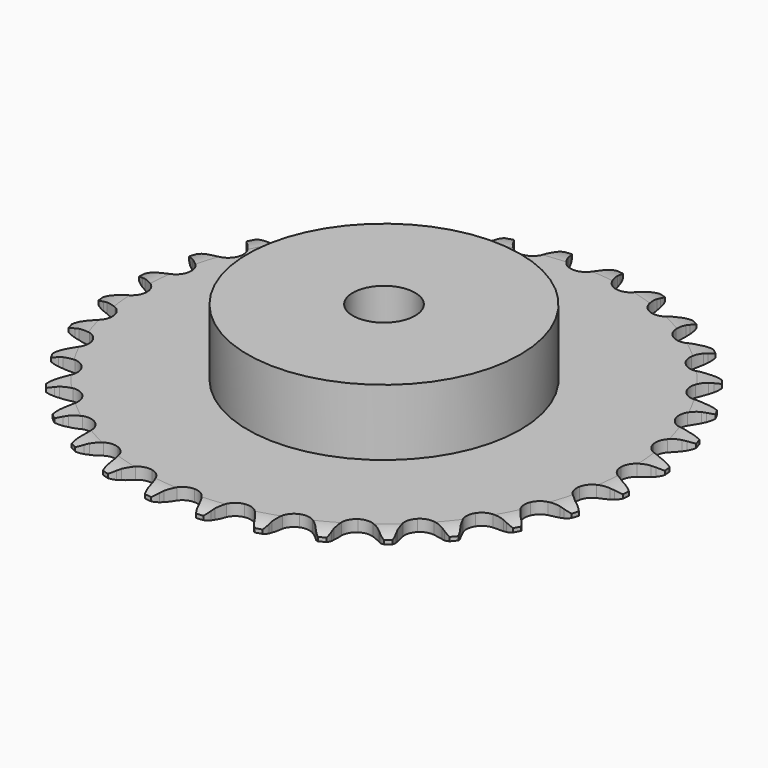
from build123d import *

# Parameters (mm, degrees)
PAD_DEPTH         = 3
SKETCH001_R       = 35
PAD001_DEPTH      = 20
SKETCH002_R       = 8
POCKET_DEPTH      = 0.001
POCKET_DEPTH_BACK = 20.001


with BuildPart() as part:
    # Sprocket → Pad (new body)
    with BuildSketch(Plane.XY):
        with BuildLine():
            ThreePointArc((-6.751607, 68.550213), (-5.658096, 67.364663), (-4.901426, 65.940322))
            Line((-4.901426, 65.940322), (-4.523375, 64.935864))
            ThreePointArc((-4.523375, 64.935864), (-3.923743, 63.631422), (-3.14577, 62.424822))
            ThreePointArc((-3.14577, 62.424822), (-1.7585, 61.267197), (0, 60.852112))
            ThreePointArc((0, 60.852112), (1.7585, 61.267197), (3.14577, 62.424822))
            ThreePointArc((3.14577, 62.424822), (3.923743, 63.631422), (4.523375, 64.935864))
            Line((4.523375, 64.935864), (4.901426, 65.940322))
            ThreePointArc((4.901426, 65.940322), (5.658096, 67.364663), (6.751607, 68.550213))
            ThreePointArc((6.751607, 68.550213), (7.592817, 67.17411), (8.057072, 65.629518))
            Line((8.057072, 65.629518), (8.231899, 64.570607))
            ThreePointArc((8.231899, 64.570607), (8.565525, 63.174247), (9.093154, 61.839056))
            ThreePointArc((9.093154, 61.839056), (10.227927, 60.433031), (11.871658, 59.682856))
            ThreePointArc((11.871658, 59.682856), (13.677348, 59.746898), (15.263803, 60.611638))
            Line((15.263803, 60.611638), (17.104818, 62.805673))
            ThreePointArc((17.104818, 62.805673), (17.376116, 63.268884), (17.671565, 63.717077))
            ThreePointArc((17.671565, 63.717077), (18.691571, 64.96643), (19.99536, 65.915867))
            ThreePointArc((19.99536, 65.915867), (20.551942, 64.402093), (20.705942, 62.796609))
            Line((20.705942, 62.796609), (20.670826, 61.723937))
            ThreePointArc((20.670826, 61.723937), (20.725625, 60.28932), (20.982633, 58.87685))
            ThreePointArc((20.982633, 58.87685), (21.821299, 57.276458), (23.287095, 56.220021))
            ThreePointArc((23.287095, 56.220021), (25.070583, 55.93056), (26.795258, 56.469182))
            Line((26.795258, 56.469182), (29.028933, 58.261895))
            ThreePointArc((29.028933, 58.261895), (29.385386, 58.663278), (29.762596, 59.04522))
            ThreePointArc((29.762596, 59.04522), (31.006739, 60.071574), (32.470702, 60.748411))
            ThreePointArc((32.470702, 60.748411), (32.721267, 59.15514), (32.559094, 57.550461))
            Line((32.559094, 57.550461), (32.315385, 56.50525))
            ThreePointArc((32.315385, 56.50525), (32.089251, 55.087509), (32.065761, 53.652039))
            ThreePointArc((32.065761, 53.652039), (32.576092, 51.918782), (33.807622, 50.596682))
            ThreePointArc((33.807622, 50.596682), (35.50037, 49.964842), (37.296985, 50.156647))
            Line((37.296985, 50.156647), (39.837482, 51.479146))
            ThreePointArc((39.837482, 51.479146), (40.265392, 51.803275), (40.709867, 52.104288))
            ThreePointArc((40.709867, 52.104288), (42.130336, 52.868201), (43.698214, 53.246427))
            ThreePointArc((43.698214, 53.246427), (43.633132, 51.634888), (43.161018, 50.092681))
            Line((43.161018, 50.092681), (42.718081, 49.115099))
            ThreePointArc((42.718081, 49.115099), (42.219705, 47.768716), (41.91662, 46.36541))
            ThreePointArc((41.91662, 46.36541), (42.079003, 44.565897), (43.028941, 43.028941))
            ThreePointArc((43.028941, 43.028941), (44.565897, 42.079003), (46.36541, 41.91662))
            Line((46.36541, 41.91662), (49.115099, 42.718081))
            ThreePointArc((49.115099, 42.718081), (49.598021, 42.952502), (50.092681, 43.161018))
            ThreePointArc((50.092681, 43.161018), (51.634888, 43.633132), (53.246427, 43.698214))
            ThreePointArc((53.246427, 43.698214), (52.868201, 42.130336), (52.104288, 40.709867))
            Line((52.104288, 40.709867), (51.479146, 39.837482))
            ThreePointArc((51.479146, 39.837482), (50.727679, 38.614197), (50.156647, 37.296985))
            ThreePointArc((50.156647, 37.296985), (49.964842, 35.50037), (50.596682, 33.807622))
            ThreePointArc((50.596682, 33.807622), (51.918782, 32.576092), (53.652039, 32.065761))
            Line((53.652039, 32.065761), (56.50525, 32.315385))
            ThreePointArc((56.50525, 32.315385), (57.024626, 32.451088), (57.550461, 32.559094))
            ThreePointArc((57.550461, 32.559094), (59.15514, 32.721267), (60.748411, 32.470702))
            ThreePointArc((60.748411, 32.470702), (60.071574, 31.006739), (59.04522, 29.762596))
            Line((59.04522, 29.762596), (58.261895, 29.028933))
            ThreePointArc((58.261895, 29.028933), (57.286217, 27.975757), (56.469182, 26.795258))
            ThreePointArc((56.469182, 26.795258), (55.93056, 25.070583), (56.220021, 23.287095))
            ThreePointArc((56.220021, 23.287095), (57.276458, 21.821299), (58.87685, 20.982633))
            Line((58.87685, 20.982633), (61.723937, 20.670826))
            ThreePointArc((61.723937, 20.670826), (62.259807, 20.702596), (62.796609, 20.705942))
            ThreePointArc((62.796609, 20.705942), (64.402093, 20.551942), (65.915867, 19.99536))
            ThreePointArc((65.915867, 19.99536), (64.96643, 18.691571), (63.717077, 17.671565))
            Line((63.717077, 17.671565), (62.805673, 17.104818))
            ThreePointArc((62.805673, 17.104818), (61.643278, 16.262224), (60.611638, 15.263803))
            ThreePointArc((60.611638, 15.263803), (59.746898, 13.677348), (59.682856, 11.871658))
            ThreePointArc((59.682856, 11.871658), (60.433031, 10.227927), (61.839056, 9.093154))
            Line((61.839056, 9.093154), (64.570607, 8.231899))
            ThreePointArc((64.570607, 8.231899), (65.102379, 8.158516), (65.629518, 8.057072))
            ThreePointArc((65.629518, 8.057072), (67.17411, 7.592817), (68.550213, 6.751607))
            ThreePointArc((68.550213, 6.751607), (67.364663, 5.658096), (65.940322, 4.901426))
            Line((65.940322, 4.901426), (64.935864, 4.523375))
            ThreePointArc((64.935864, 4.523375), (63.631422, 3.923743), (62.424822, 3.14577))
            ThreePointArc((62.424822, 3.14577), (61.267197, 1.7585), (60.852112, 0))
            ThreePointArc((60.852112, 0), (61.267197, -1.7585), (62.424822, -3.14577))
            Line((62.424822, -3.14577), (64.935864, -4.523375))
            ThreePointArc((64.935864, -4.523375), (65.443102, -4.699092), (65.940322, -4.901426))
            ThreePointArc((65.940322, -4.901426), (67.364663, -5.658096), (68.550213, -6.751607))
            ThreePointArc((68.550213, -6.751607), (67.17411, -7.592817), (65.629518, -8.057072))
            Line((65.629518, -8.057072), (64.570607, -8.231899))
            ThreePointArc((64.570607, -8.231899), (63.174247, -8.565525), (61.839056, -9.093154))
            ThreePointArc((61.839056, -9.093154), (60.433031, -10.227927), (59.682856, -11.871658))
            ThreePointArc((59.682856, -11.871658), (59.746898, -13.677348), (60.611638, -15.263803))
            Line((60.611638, -15.263803), (62.805673, -17.104818))
            ThreePointArc((62.805673, -17.104818), (63.268884, -17.376116), (63.717077, -17.671565))
            ThreePointArc((63.717077, -17.671565), (64.96643, -18.691571), (65.915867, -19.99536))
            ThreePointArc((65.915867, -19.99536), (64.402093, -20.551942), (62.796609, -20.705942))
            Line((62.796609, -20.705942), (61.723937, -20.670826))
            ThreePointArc((61.723937, -20.670826), (60.28932, -20.725625), (58.87685, -20.982633))
            ThreePointArc((58.87685, -20.982633), (57.276458, -21.821299), (56.220021, -23.287095))
            ThreePointArc((56.220021, -23.287095), (55.93056, -25.070583), (56.469182, -26.795258))
            Line((56.469182, -26.795258), (58.261895, -29.028933))
            ThreePointArc((58.261895, -29.028933), (58.663278, -29.385386), (59.04522, -29.762596))
            ThreePointArc((59.04522, -29.762596), (60.071574, -31.006739), (60.748411, -32.470702))
            ThreePointArc((60.748411, -32.470702), (59.15514, -32.721267), (57.550461, -32.559094))
            Line((57.550461, -32.559094), (56.50525, -32.315385))
            ThreePointArc((56.50525, -32.315385), (55.087509, -32.089251), (53.652039, -32.065761))
            ThreePointArc((53.652039, -32.065761), (51.918782, -32.576092), (50.596682, -33.807622))
            ThreePointArc((50.596682, -33.807622), (49.964842, -35.50037), (50.156647, -37.296985))
            Line((50.156647, -37.296985), (51.479146, -39.837482))
            ThreePointArc((51.479146, -39.837482), (51.803275, -40.265392), (52.104288, -40.709867))
            ThreePointArc((52.104288, -40.709867), (52.868201, -42.130336), (53.246427, -43.698214))
            ThreePointArc((53.246427, -43.698214), (51.634888, -43.633132), (50.092681, -43.161018))
            Line((50.092681, -43.161018), (49.115099, -42.718081))
            ThreePointArc((49.115099, -42.718081), (47.768716, -42.219705), (46.36541, -41.91662))
            ThreePointArc((46.36541, -41.91662), (44.565897, -42.079003), (43.028941, -43.028941))
            ThreePointArc((43.028941, -43.028941), (42.079003, -44.565897), (41.91662, -46.36541))
            Line((41.91662, -46.36541), (42.718081, -49.115099))
            ThreePointArc((42.718081, -49.115099), (42.952502, -49.598021), (43.161018, -50.092681))
            ThreePointArc((43.161018, -50.092681), (43.633132, -51.634888), (43.698214, -53.246427))
            ThreePointArc((43.698214, -53.246427), (42.130336, -52.868201), (40.709867, -52.104288))
            Line((40.709867, -52.104288), (39.837482, -51.479146))
            ThreePointArc((39.837482, -51.479146), (38.614197, -50.727679), (37.296985, -50.156647))
            ThreePointArc((37.296985, -50.156647), (35.50037, -49.964842), (33.807622, -50.596682))
            ThreePointArc((33.807622, -50.596682), (32.576092, -51.918782), (32.065761, -53.652039))
            Line((32.065761, -53.652039), (32.315385, -56.50525))
            ThreePointArc((32.315385, -56.50525), (32.451088, -57.024626), (32.559094, -57.550461))
            ThreePointArc((32.559094, -57.550461), (32.721267, -59.15514), (32.470702, -60.748411))
            ThreePointArc((32.470702, -60.748411), (31.006739, -60.071574), (29.762596, -59.04522))
            Line((29.762596, -59.04522), (29.028933, -58.261895))
            ThreePointArc((29.028933, -58.261895), (27.975757, -57.286217), (26.795258, -56.469182))
            ThreePointArc((26.795258, -56.469182), (25.070583, -55.93056), (23.287095, -56.220021))
            ThreePointArc((23.287095, -56.220021), (21.821299, -57.276458), (20.982633, -58.87685))
            Line((20.982633, -58.87685), (20.670826, -61.723937))
            ThreePointArc((20.670826, -61.723937), (20.702596, -62.259807), (20.705942, -62.796609))
            ThreePointArc((20.705942, -62.796609), (20.551942, -64.402093), (19.99536, -65.915867))
            ThreePointArc((19.99536, -65.915867), (18.691571, -64.96643), (17.671565, -63.717077))
            Line((17.671565, -63.717077), (17.104818, -62.805673))
            ThreePointArc((17.104818, -62.805673), (16.262224, -61.643278), (15.263803, -60.611638))
            ThreePointArc((15.263803, -60.611638), (13.677348, -59.746898), (11.871658, -59.682856))
            ThreePointArc((11.871658, -59.682856), (10.227927, -60.433031), (9.093154, -61.839056))
            Line((9.093154, -61.839056), (8.231899, -64.570607))
            ThreePointArc((8.231899, -64.570607), (8.158516, -65.102379), (8.057072, -65.629518))
            ThreePointArc((8.057072, -65.629518), (7.592817, -67.17411), (6.751607, -68.550213))
            ThreePointArc((6.751607, -68.550213), (5.658096, -67.364663), (4.901426, -65.940322))
            Line((4.901426, -65.940322), (4.523375, -64.935864))
            ThreePointArc((4.523375, -64.935864), (3.923743, -63.631422), (3.14577, -62.424822))
            ThreePointArc((3.14577, -62.424822), (1.7585, -61.267197), (0, -60.852112))
            ThreePointArc((0, -60.852112), (-1.7585, -61.267197), (-3.14577, -62.424822))
            Line((-3.14577, -62.424822), (-4.523375, -64.935864))
            ThreePointArc((-4.523375, -64.935864), (-4.699092, -65.443102), (-4.901426, -65.940322))
            ThreePointArc((-4.901426, -65.940322), (-5.658096, -67.364663), (-6.751607, -68.550213))
            ThreePointArc((-6.751607, -68.550213), (-7.592817, -67.17411), (-8.057072, -65.629518))
            Line((-8.057072, -65.629518), (-8.231899, -64.570607))
            ThreePointArc((-8.231899, -64.570607), (-8.565525, -63.174247), (-9.093154, -61.839056))
            ThreePointArc((-9.093154, -61.839056), (-10.227927, -60.433031), (-11.871658, -59.682856))
            ThreePointArc((-11.871658, -59.682856), (-13.677348, -59.746898), (-15.263803, -60.611638))
            Line((-15.263803, -60.611638), (-17.104818, -62.805673))
            ThreePointArc((-17.104818, -62.805673), (-17.376116, -63.268884), (-17.671565, -63.717077))
            ThreePointArc((-17.671565, -63.717077), (-18.691571, -64.96643), (-19.99536, -65.915867))
            ThreePointArc((-19.99536, -65.915867), (-20.551942, -64.402093), (-20.705942, -62.796609))
            Line((-20.705942, -62.796609), (-20.670826, -61.723937))
            ThreePointArc((-20.670826, -61.723937), (-20.725625, -60.28932), (-20.982633, -58.87685))
            ThreePointArc((-20.982633, -58.87685), (-21.821299, -57.276458), (-23.287095, -56.220021))
            ThreePointArc((-23.287095, -56.220021), (-25.070583, -55.93056), (-26.795258, -56.469182))
            Line((-26.795258, -56.469182), (-29.028933, -58.261895))
            ThreePointArc((-29.028933, -58.261895), (-29.385386, -58.663278), (-29.762596, -59.04522))
            ThreePointArc((-29.762596, -59.04522), (-31.006739, -60.071574), (-32.470702, -60.748411))
            ThreePointArc((-32.470702, -60.748411), (-32.721267, -59.15514), (-32.559094, -57.550461))
            Line((-32.559094, -57.550461), (-32.315385, -56.50525))
            ThreePointArc((-32.315385, -56.50525), (-32.089251, -55.087509), (-32.065761, -53.652039))
            ThreePointArc((-32.065761, -53.652039), (-32.576092, -51.918782), (-33.807622, -50.596682))
            ThreePointArc((-33.807622, -50.596682), (-35.50037, -49.964842), (-37.296985, -50.156647))
            Line((-37.296985, -50.156647), (-39.837482, -51.479146))
            ThreePointArc((-39.837482, -51.479146), (-40.265392, -51.803275), (-40.709867, -52.104288))
            ThreePointArc((-40.709867, -52.104288), (-42.130336, -52.868201), (-43.698214, -53.246427))
            ThreePointArc((-43.698214, -53.246427), (-43.633132, -51.634888), (-43.161018, -50.092681))
            Line((-43.161018, -50.092681), (-42.718081, -49.115099))
            ThreePointArc((-42.718081, -49.115099), (-42.219705, -47.768716), (-41.91662, -46.36541))
            ThreePointArc((-41.91662, -46.36541), (-42.079003, -44.565897), (-43.028941, -43.028941))
            ThreePointArc((-43.028941, -43.028941), (-44.565897, -42.079003), (-46.36541, -41.91662))
            Line((-46.36541, -41.91662), (-49.115099, -42.718081))
            ThreePointArc((-49.115099, -42.718081), (-49.598021, -42.952502), (-50.092681, -43.161018))
            ThreePointArc((-50.092681, -43.161018), (-51.634888, -43.633132), (-53.246427, -43.698214))
            ThreePointArc((-53.246427, -43.698214), (-52.868201, -42.130336), (-52.104288, -40.709867))
            Line((-52.104288, -40.709867), (-51.479146, -39.837482))
            ThreePointArc((-51.479146, -39.837482), (-50.727679, -38.614197), (-50.156647, -37.296985))
            ThreePointArc((-50.156647, -37.296985), (-49.964842, -35.50037), (-50.596682, -33.807622))
            ThreePointArc((-50.596682, -33.807622), (-51.918782, -32.576092), (-53.652039, -32.065761))
            Line((-53.652039, -32.065761), (-56.50525, -32.315385))
            ThreePointArc((-56.50525, -32.315385), (-57.024626, -32.451088), (-57.550461, -32.559094))
            ThreePointArc((-57.550461, -32.559094), (-59.15514, -32.721267), (-60.748411, -32.470702))
            ThreePointArc((-60.748411, -32.470702), (-60.071574, -31.006739), (-59.04522, -29.762596))
            Line((-59.04522, -29.762596), (-58.261895, -29.028933))
            ThreePointArc((-58.261895, -29.028933), (-57.286217, -27.975757), (-56.469182, -26.795258))
            ThreePointArc((-56.469182, -26.795258), (-55.93056, -25.070583), (-56.220021, -23.287095))
            ThreePointArc((-56.220021, -23.287095), (-57.276458, -21.821299), (-58.87685, -20.982633))
            Line((-58.87685, -20.982633), (-61.723937, -20.670826))
            ThreePointArc((-61.723937, -20.670826), (-62.259807, -20.702596), (-62.796609, -20.705942))
            ThreePointArc((-62.796609, -20.705942), (-64.402093, -20.551942), (-65.915867, -19.99536))
            ThreePointArc((-65.915867, -19.99536), (-64.96643, -18.691571), (-63.717077, -17.671565))
            Line((-63.717077, -17.671565), (-62.805673, -17.104818))
            ThreePointArc((-62.805673, -17.104818), (-61.643278, -16.262224), (-60.611638, -15.263803))
            ThreePointArc((-60.611638, -15.263803), (-59.746898, -13.677348), (-59.682856, -11.871658))
            ThreePointArc((-59.682856, -11.871658), (-60.433031, -10.227927), (-61.839056, -9.093154))
            Line((-61.839056, -9.093154), (-64.570607, -8.231899))
            ThreePointArc((-64.570607, -8.231899), (-65.102379, -8.158516), (-65.629518, -8.057072))
            ThreePointArc((-65.629518, -8.057072), (-67.17411, -7.592817), (-68.550213, -6.751607))
            ThreePointArc((-68.550213, -6.751607), (-67.364663, -5.658096), (-65.940322, -4.901426))
            Line((-65.940322, -4.901426), (-64.935864, -4.523375))
            ThreePointArc((-64.935864, -4.523375), (-63.631422, -3.923743), (-62.424822, -3.14577))
            ThreePointArc((-62.424822, -3.14577), (-61.267197, -1.7585), (-60.852112, 0))
            ThreePointArc((-60.852112, 0), (-61.267197, 1.7585), (-62.424822, 3.14577))
            Line((-62.424822, 3.14577), (-64.935864, 4.523375))
            ThreePointArc((-64.935864, 4.523375), (-65.443102, 4.699092), (-65.940322, 4.901426))
            ThreePointArc((-65.940322, 4.901426), (-67.364663, 5.658096), (-68.550213, 6.751607))
            ThreePointArc((-68.550213, 6.751607), (-67.17411, 7.592817), (-65.629518, 8.057072))
            Line((-65.629518, 8.057072), (-64.570607, 8.231899))
            ThreePointArc((-64.570607, 8.231899), (-63.174247, 8.565525), (-61.839056, 9.093154))
            ThreePointArc((-61.839056, 9.093154), (-60.433031, 10.227927), (-59.682856, 11.871658))
            ThreePointArc((-59.682856, 11.871658), (-59.746898, 13.677348), (-60.611638, 15.263803))
            Line((-60.611638, 15.263803), (-62.805673, 17.104818))
            ThreePointArc((-62.805673, 17.104818), (-63.268884, 17.376116), (-63.717077, 17.671565))
            ThreePointArc((-63.717077, 17.671565), (-64.96643, 18.691571), (-65.915867, 19.99536))
            ThreePointArc((-65.915867, 19.99536), (-64.402093, 20.551942), (-62.796609, 20.705942))
            Line((-62.796609, 20.705942), (-61.723937, 20.670826))
            ThreePointArc((-61.723937, 20.670826), (-60.28932, 20.725625), (-58.87685, 20.982633))
            ThreePointArc((-58.87685, 20.982633), (-57.276458, 21.821299), (-56.220021, 23.287095))
            ThreePointArc((-56.220021, 23.287095), (-55.93056, 25.070583), (-56.469182, 26.795258))
            Line((-56.469182, 26.795258), (-58.261895, 29.028933))
            ThreePointArc((-58.261895, 29.028933), (-58.663278, 29.385386), (-59.04522, 29.762596))
            ThreePointArc((-59.04522, 29.762596), (-60.071574, 31.006739), (-60.748411, 32.470702))
            ThreePointArc((-60.748411, 32.470702), (-59.15514, 32.721267), (-57.550461, 32.559094))
            Line((-57.550461, 32.559094), (-56.50525, 32.315385))
            ThreePointArc((-56.50525, 32.315385), (-55.087509, 32.089251), (-53.652039, 32.065761))
            ThreePointArc((-53.652039, 32.065761), (-51.918782, 32.576092), (-50.596682, 33.807622))
            ThreePointArc((-50.596682, 33.807622), (-49.964842, 35.50037), (-50.156647, 37.296985))
            Line((-50.156647, 37.296985), (-51.479146, 39.837482))
            ThreePointArc((-51.479146, 39.837482), (-51.803275, 40.265392), (-52.104288, 40.709867))
            ThreePointArc((-52.104288, 40.709867), (-52.868201, 42.130336), (-53.246427, 43.698214))
            ThreePointArc((-53.246427, 43.698214), (-51.634888, 43.633132), (-50.092681, 43.161018))
            Line((-50.092681, 43.161018), (-49.115099, 42.718081))
            ThreePointArc((-49.115099, 42.718081), (-47.768716, 42.219705), (-46.36541, 41.91662))
            ThreePointArc((-46.36541, 41.91662), (-44.565897, 42.079003), (-43.028941, 43.028941))
            ThreePointArc((-43.028941, 43.028941), (-42.079003, 44.565897), (-41.91662, 46.36541))
            Line((-41.91662, 46.36541), (-42.718081, 49.115099))
            ThreePointArc((-42.718081, 49.115099), (-42.952502, 49.598021), (-43.161018, 50.092681))
            ThreePointArc((-43.161018, 50.092681), (-43.633132, 51.634888), (-43.698214, 53.246427))
            ThreePointArc((-43.698214, 53.246427), (-42.130336, 52.868201), (-40.709867, 52.104288))
            Line((-40.709867, 52.104288), (-39.837482, 51.479146))
            ThreePointArc((-39.837482, 51.479146), (-38.614197, 50.727679), (-37.296985, 50.156647))
            ThreePointArc((-37.296985, 50.156647), (-35.50037, 49.964842), (-33.807622, 50.596682))
            ThreePointArc((-33.807622, 50.596682), (-32.576092, 51.918782), (-32.065761, 53.652039))
            Line((-32.065761, 53.652039), (-32.315385, 56.50525))
            ThreePointArc((-32.315385, 56.50525), (-32.451088, 57.024626), (-32.559094, 57.550461))
            ThreePointArc((-32.559094, 57.550461), (-32.721267, 59.15514), (-32.470702, 60.748411))
            ThreePointArc((-32.470702, 60.748411), (-31.006739, 60.071574), (-29.762596, 59.04522))
            Line((-29.762596, 59.04522), (-29.028933, 58.261895))
            ThreePointArc((-29.028933, 58.261895), (-27.975757, 57.286217), (-26.795258, 56.469182))
            ThreePointArc((-26.795258, 56.469182), (-25.070583, 55.93056), (-23.287095, 56.220021))
            ThreePointArc((-23.287095, 56.220021), (-21.821299, 57.276458), (-20.982633, 58.87685))
            Line((-20.982633, 58.87685), (-20.670826, 61.723937))
            ThreePointArc((-20.670826, 61.723937), (-20.702596, 62.259807), (-20.705942, 62.796609))
            ThreePointArc((-20.705942, 62.796609), (-20.551942, 64.402093), (-19.99536, 65.915867))
            ThreePointArc((-19.99536, 65.915867), (-18.691571, 64.96643), (-17.671565, 63.717077))
            Line((-17.671565, 63.717077), (-17.104818, 62.805673))
            ThreePointArc((-17.104818, 62.805673), (-16.262224, 61.643278), (-15.263803, 60.611638))
            ThreePointArc((-15.263803, 60.611638), (-13.677348, 59.746898), (-11.871658, 59.682856))
            ThreePointArc((-11.871658, 59.682856), (-10.227927, 60.433031), (-9.093154, 61.839056))
            Line((-9.093154, 61.839056), (-8.231899, 64.570607))
            ThreePointArc((-8.231899, 64.570607), (-8.158516, 65.102379), (-8.057072, 65.629518))
            ThreePointArc((-8.057072, 65.629518), (-7.592817, 67.17411), (-6.751607, 68.550213))
        make_face()
    extrude(amount=PAD_DEPTH)

    # Sketch → Groove (revolve, cut)
    with BuildSketch(Plane.XZ):
        with BuildLine():
            Line((62.75, 0), (67.75, 0))
            Line((72.75, 0), (67.75, 0))
            Line((72.75, 3), (72.75, 0))
            Line((67.75, 3), (72.75, 3))
            Line((62.75, 3), (67.75, 3))
            ThreePointArc((67.75, 2), (65.29951, 2.747549), (62.75, 3))
            Line((67.75, 1), (67.75, 2))
            ThreePointArc((62.75, 0), (65.29951, 0.252451), (67.75, 1))
        make_face()
    revolve(axis=Axis((0, 0, 0), (0, 0, 1)), mode=Mode.SUBTRACT)

    # Sketch001 → Pad001 (join)
    with BuildSketch(Plane.XY):
        Circle(SKETCH001_R)
    extrude(amount=PAD001_DEPTH)

    # Sketch002 → Pocket (cut, two sides)
    with BuildSketch(Plane.XY) as pocket_sk:
        Circle(SKETCH002_R)
    extrude(amount=-POCKET_DEPTH, mode=Mode.SUBTRACT)
    extrude(pocket_sk.sketch, amount=POCKET_DEPTH_BACK, mode=Mode.SUBTRACT)


solid = part.part
